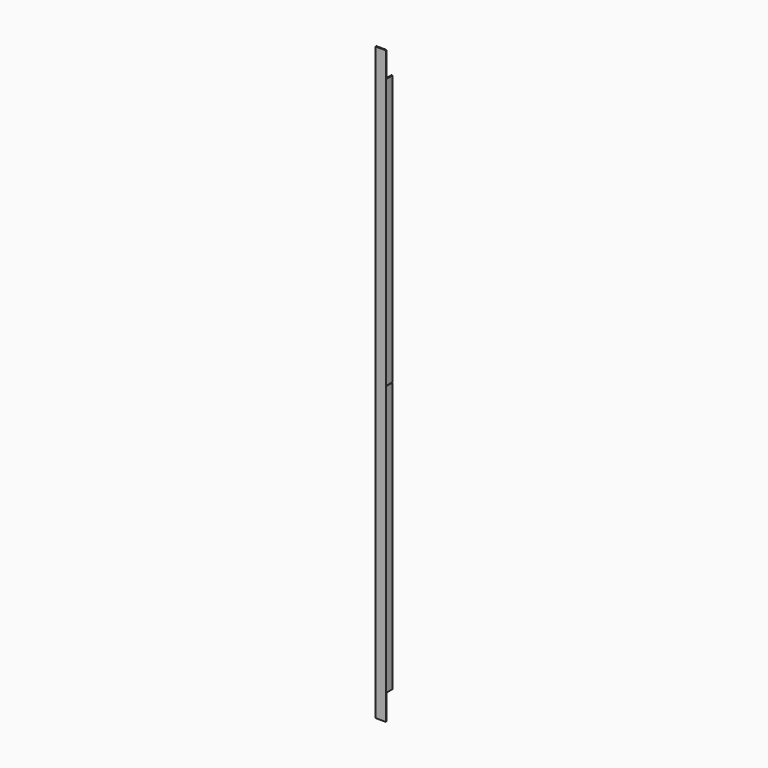
from build123d import *

# Parameters (mm, degrees)
F1_DEPTH = 903.3002
F2_W     = 1.5875
F2_H     = 38.9001
F2_H_2   = 0.635
F3_DEPTH = 11.1125
F4_W     = 1.5875
F4_H     = 38.1127
F5_DEPTH = 11.1125


with BuildPart() as f1:
    # F0 (on Top) → F1 (new body)
    with BuildSketch(Plane.XY):
        Polygon((-6.35, -6.35), (6.35, -6.35), (7.9375, -6.35), (7.9375, 6.35), (6.35, 6.35), (6.35, -4.7625), (-6.35, -4.7625), (-6.35, 6.35), (-7.9375, 6.35), (-7.9375, -6.35), align=None)
    extrude(amount=F1_DEPTH)

    # F2 (on face) → F3 (cut)
    with BuildSketch(Plane(origin=(0, 6.35, 0), x_dir=(-1, 0, 0), z_dir=(0, 1, 0))):
        with Locations((-7.14375, 19.45005)):
            Rectangle(F2_W, F2_H)
        with Locations((-7.14375, 883.85015)):
            Rectangle(F2_W, F2_H)
        with Locations((-7.14375, 451.6501)):
            Rectangle(F2_W, F2_H_2)
    extrude(amount=-F3_DEPTH, mode=Mode.SUBTRACT)

    # F4 (on face) → F5 (cut)
    with BuildSketch(Plane(origin=(0, 6.35, 0), x_dir=(-1, 0, 0), z_dir=(0, 1, 0))):
        with Locations((7.14375, 19.05635)):
            Rectangle(F4_W, F4_H)
        with Locations((7.14375, 884.24385)):
            Rectangle(F4_W, F4_H)
    extrude(amount=-F5_DEPTH, mode=Mode.SUBTRACT)


solid = f1.part
